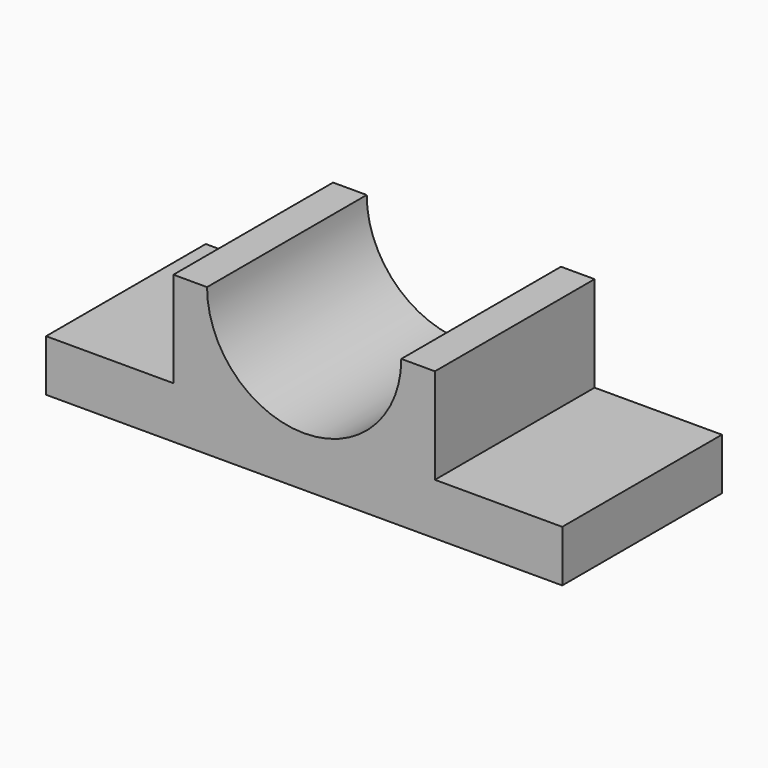
from build123d import *

# Parameters (mm, degrees)
F0_W     = 193.04
F0_H     = 70.5103150129
F1_DEPTH = 147.32
F3_DEPTH = 25.4
F4_DEPTH = 147.32


with BuildPart() as f1:
    # F0 (on Front) → F1 (new body)
    with BuildSketch(Plane.XZ):
        Polygon((-190.5, -19.05), (190.5, -19.05), (190.5, 19.05), (96.52, 19.05), (-96.52, 19.05), (-190.5, 19.05), align=None)
        with Locations((0, 54.3051575065)):
            Rectangle(F0_W, F0_H)
    extrude(amount=F1_DEPTH)

    # F2 (on face) → F3 (cut)
    with BuildSketch(Plane.XZ.offset(147.32)):
        with BuildLine():
            ThreePointArc((-71.6898662242, 89.5603150129), (0, 17.8704487887), (71.6898662242, 89.5603150129))
            Line((71.6898662242, 89.5603150129), (-71.6898662242, 89.5603150129))
        make_face()
    extrude(amount=-F3_DEPTH, mode=Mode.SUBTRACT)

    # F4 (cut): a face of the model
    f4_faces = [f1.faces().sort_by_distance(p)[0] for p in [
        (0, -121.92, 59.1341908018),
    ]]
    extrude(f4_faces, amount=-F4_DEPTH, mode=Mode.SUBTRACT)


solid = f1.part
